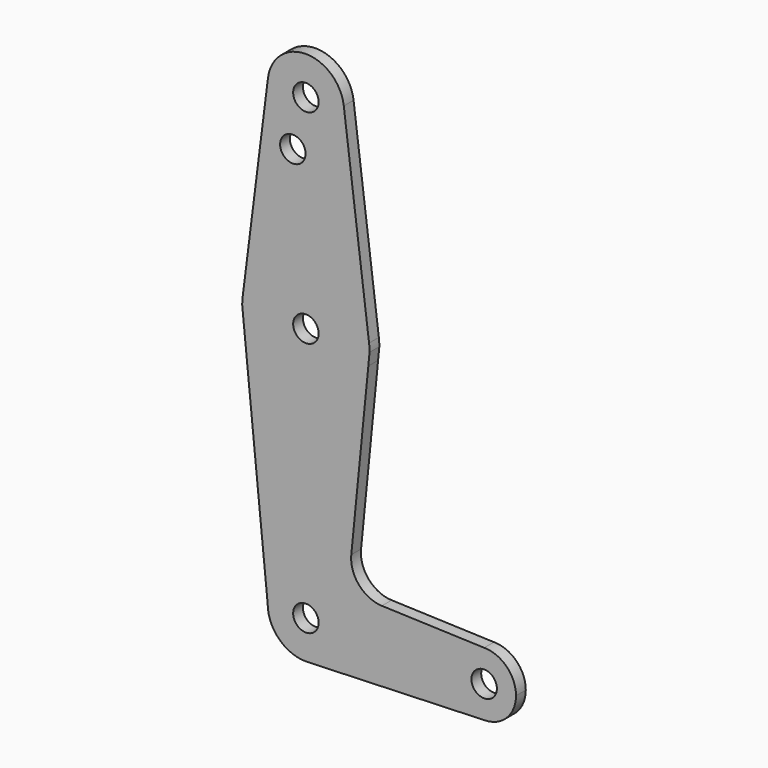
from build123d import *

# Parameters (mm, degrees)
F0_R     = 3.175
F1_DEPTH = 3.048


with BuildPart() as f1:
    # F0 (on Front) → F1 (new body)
    with BuildSketch(Plane.XZ):
        with BuildLine():
            Line((-9.450293, 115.490625), (-15.750488, 65.484375))
            ThreePointArc((-15.750488, 65.484375), (0, 79.375), (15.750488, 65.484375))
            Line((15.750488, 65.484375), (9.450293, 115.490625))
            ThreePointArc((9.450293, 115.490625), (9.506305, 114.896483), (9.525, 114.3))
            ThreePointArc((9.525, 114.3), (-0.596483, 104.793695), (-9.450293, 115.490625))
        make_face()
        with Locations((-3.257002, 101.879045)):
            Circle(F0_R, mode=Mode.SUBTRACT)
        with BuildLine():
            ThreePointArc((9.450293, 115.490625), (0, 123.825), (-9.450293, 115.490625))
            ThreePointArc((-9.450293, 115.490625), (-0.596483, 104.793695), (9.525, 114.3))
            ThreePointArc((9.525, 114.3), (9.506305, 114.896483), (9.450293, 115.490625))
        make_face()
        with Locations((0, 114.3)):
            Circle(F0_R, mode=Mode.SUBTRACT)
        with BuildLine():
            Line((-15.875, 63.5), (-15.560644, 60.356436))
            ThreePointArc((-15.560644, 60.356436), (0.011588, 47.625004), (15.565216, 60.379155))
            Line((15.565216, 60.379155), (15.875, 63.5))
            ThreePointArc((15.875, 63.5), (15.843841, 64.494139), (15.750488, 65.484375))
            ThreePointArc((15.750488, 65.484375), (0, 79.375), (-15.750488, 65.484375))
            ThreePointArc((-15.750488, 65.484375), (-15.843841, 64.494139), (-15.875, 63.5))
        make_face()
        with Locations((0, 63.5)):
            Circle(F0_R, mode=Mode.SUBTRACT)
        with BuildLine():
            ThreePointArc((-9.525, 0), (0, 9.525), (9.525, 0))
            ThreePointArc((9.525, 0), (6.970557, -6.491299), (0.677344, -9.500886))
            Line((0.677344, -9.500886), (44.732405, -7.932475))
            ThreePointArc((44.732405, -7.932475), (36.513756, -0.141225), (44.45, 7.9375))
            Line((44.45, 7.9375), (18.944302, 8.848418))
            ThreePointArc((18.944302, 8.848418), (13.240993, 11.562802), (11.316737, 17.578852))
            Line((11.316737, 17.578852), (15.565216, 60.379155))
            ThreePointArc((15.565216, 60.379155), (0.011588, 47.625004), (-15.560644, 60.356436))
            Line((-15.560644, 60.356436), (-9.525, 0))
        make_face()
        with BuildLine():
            ThreePointArc((0.677344, -9.500886), (6.970557, -6.491299), (9.525, 0))
            ThreePointArc((9.525, 0), (0, 9.525), (-9.525, 0))
            ThreePointArc((-9.525, 0), (-6.735192, -6.735192), (0, -9.525))
            Line((0, -9.525), (0.677344, -9.500886))
        make_face()
        Circle(F0_R, mode=Mode.SUBTRACT)
        with BuildLine():
            ThreePointArc((44.45, 7.9375), (36.513756, -0.141225), (44.732405, -7.932475))
            ThreePointArc((44.732405, -7.932475), (50.161633, -5.51191), (52.3875, 0))
            ThreePointArc((52.3875, 0), (50.06266, 5.61266), (44.45, 7.9375))
        make_face()
        with Locations((44.45, 0)):
            Circle(F0_R, mode=Mode.SUBTRACT)
    extrude(amount=F1_DEPTH)


solid = f1.part
